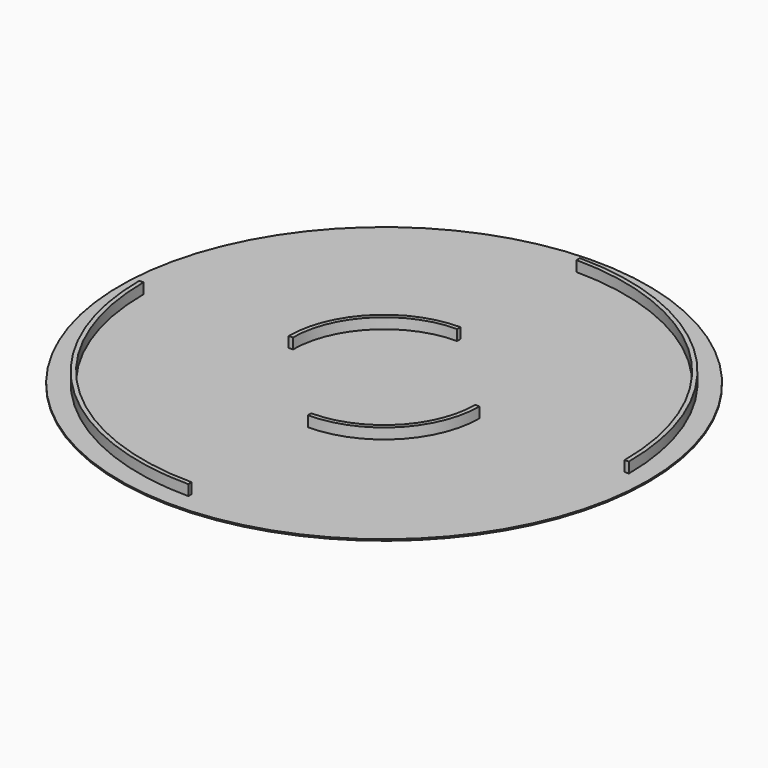
from build123d import *

# Parameters (mm, degrees)
CYLINDER_R             = 110
CYLINDER_DEPTH         = 0.6
CYLINDER002_W          = 100.25
CYLINDER002_H          = 5
CYLINDER002_ANGLE      = 90
CYLINDER001_W          = 102
CYLINDER001_H          = 5
CYLINDER001_ANGLE      = 90
CYLINDER012_W          = 38
CYLINDER012_H          = 5
CYLINDER012_ANGLE      = 90
CYLINDER013_W          = 39.75
CYLINDER013_H          = 5
CYLINDER013_ANGLE      = 90
CUT007_PLACEMENT_ANGLE = 90
CYLINDER015_W          = 100.25
CYLINDER015_H          = 5
CYLINDER015_ANGLE      = 90
CYLINDER014_W          = 102
CYLINDER014_H          = 5
CYLINDER014_ANGLE      = 90
CUT008_PLACEMENT_ANGLE = 180
CYLINDER016_W          = 38
CYLINDER016_H          = 5
CYLINDER016_ANGLE      = 90
CYLINDER017_W          = 39.75
CYLINDER017_H          = 5
CYLINDER017_ANGLE      = 90
CUT009_PLACEMENT_ANGLE = 270


with BuildPart() as cilindro:
    # Cylinder → Cylinder (new body)
    with BuildSketch(Plane.XY):
        Circle(CYLINDER_R)
    extrude(amount=CYLINDER_DEPTH)


with BuildPart() as cilindro002:
    # Cylinder002 → Cylinder002 (revolve)
    with BuildSketch(Plane.XZ):
        with Locations((50.125, 2.5)):
            Rectangle(CYLINDER002_W, CYLINDER002_H)
    revolve(axis=Axis((0, 0, 0), (0, 0, 1)), revolution_arc=CYLINDER002_ANGLE)


with BuildPart() as cut:
    # Cylinder001 → Cylinder001 (revolve)
    with BuildSketch(Plane.XZ):
        with Locations((51, 2.5)):
            Rectangle(CYLINDER001_W, CYLINDER001_H)
    revolve(axis=Axis((0, 0, 0), (0, 0, 1)), revolution_arc=CYLINDER001_ANGLE)

    # Cut: cut Cilindro002
    add(cilindro002.part, mode=Mode.SUBTRACT)


with BuildPart() as cilindro012:
    # Cylinder012 → Cylinder012 (revolve)
    with BuildSketch(Plane.XZ):
        with Locations((19, 2.5)):
            Rectangle(CYLINDER012_W, CYLINDER012_H)
    revolve(axis=Axis((0, 0, 0), (0, 0, 1)), revolution_arc=CYLINDER012_ANGLE)


with BuildPart() as cut007:
    # Cylinder013 → Cylinder013 (revolve)
    with BuildSketch(Plane.XZ):
        with Locations((19.875, 2.5)):
            Rectangle(CYLINDER013_W, CYLINDER013_H)
    revolve(axis=Axis((0, 0, 0), (0, 0, 1)), revolution_arc=CYLINDER013_ANGLE)

    # Cut007: cut Cilindro012
    add(cilindro012.part, mode=Mode.SUBTRACT)


with BuildPart() as cut007_1:
    # Cut007 placement: moved
    add(cut007.part.rotate(Axis((0, 0, 0), (0, 0, 1)), CUT007_PLACEMENT_ANGLE))


with BuildPart() as cilindro015:
    # Cylinder015 → Cylinder015 (revolve)
    with BuildSketch(Plane.XZ):
        with Locations((50.125, 2.5)):
            Rectangle(CYLINDER015_W, CYLINDER015_H)
    revolve(axis=Axis((0, 0, 0), (0, 0, 1)), revolution_arc=CYLINDER015_ANGLE)


with BuildPart() as cut008:
    # Cylinder014 → Cylinder014 (revolve)
    with BuildSketch(Plane.XZ):
        with Locations((51, 2.5)):
            Rectangle(CYLINDER014_W, CYLINDER014_H)
    revolve(axis=Axis((0, 0, 0), (0, 0, 1)), revolution_arc=CYLINDER014_ANGLE)

    # Cut008: cut Cilindro015
    add(cilindro015.part, mode=Mode.SUBTRACT)


with BuildPart() as cut008_1:
    # Cut008 placement: moved
    add(cut008.part.rotate(Axis((0, 0, 0), (0, 0, 1)), CUT008_PLACEMENT_ANGLE))


with BuildPart() as cilindro016:
    # Cylinder016 → Cylinder016 (revolve)
    with BuildSketch(Plane.XZ):
        with Locations((19, 2.5)):
            Rectangle(CYLINDER016_W, CYLINDER016_H)
    revolve(axis=Axis((0, 0, 0), (0, 0, 1)), revolution_arc=CYLINDER016_ANGLE)


with BuildPart() as cut009:
    # Cylinder017 → Cylinder017 (revolve)
    with BuildSketch(Plane.XZ):
        with Locations((19.875, 2.5)):
            Rectangle(CYLINDER017_W, CYLINDER017_H)
    revolve(axis=Axis((0, 0, 0), (0, 0, 1)), revolution_arc=CYLINDER017_ANGLE)

    # Cut009: cut Cilindro016
    add(cilindro016.part, mode=Mode.SUBTRACT)


with BuildPart() as cut009_1:
    # Cut009 placement: moved
    add(cut009.part.rotate(Axis((0, 0, 0), (0, 0, 1)), CUT009_PLACEMENT_ANGLE))


solid = Compound([cilindro.part, cut.part, cut007_1.part, cut008_1.part, cut009_1.part])
